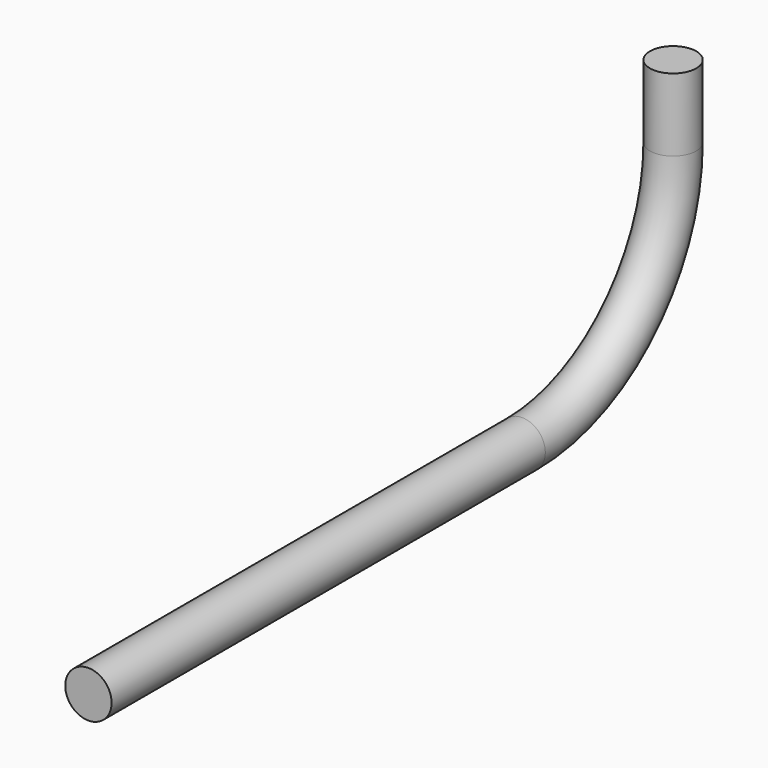
from build123d import *

# Parameters (mm, degrees)
F1_R = 8.6


with BuildPart() as f2:
    # F2: sweep along a path in F0
    with BuildLine(Plane.YZ) as f2_path:
        Line((0, 0), (0, -27))
        ThreePointArc((0, -27), (-20.502525, -76.497475), (-70, -97))
        Line((-70, -97), (-271.148, -97))
    # F1 (on Top) → F2 (sweep)
    with BuildSketch(Plane.XY):
        Circle(F1_R)
    sweep(path=f2_path.line)


solid = f2.part
